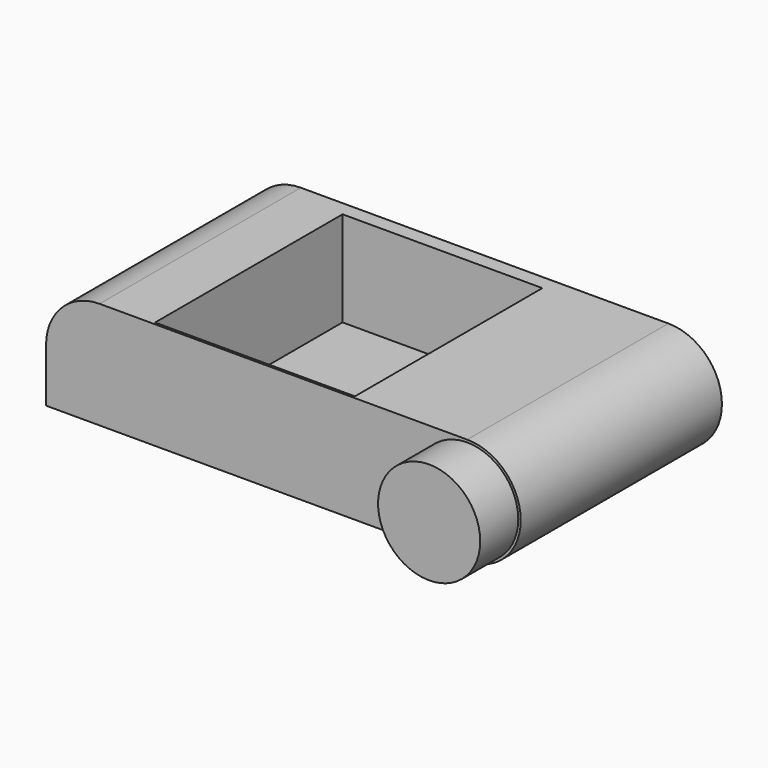
from build123d import *

# Parameters (mm, degrees)
F0_R     = 12
F1_DEPTH = 105.7
F3_DEPTH = 105.7
F4_W     = 84
F4_H     = 98.5
F5_DEPTH = 40
F6_R     = 21.461704
F7_DEPTH = 20


with BuildPart() as f1:
    # F0 (on Front) → F1 (new body)
    with BuildSketch(Plane.XZ):
        with BuildLine():
            Line((90, 22.5), (0, 22.5))
            Line((0, 22.5), (-64.5, 22.5))
            ThreePointArc((-64.5, 22.5), (-87, 0), (-64.5, -22.5))
            Line((-64.5, -22.5), (0, -22.5))
            Line((0, -22.5), (90, -22.5))
            ThreePointArc((90, -22.5), (112.5, 0), (90, 22.5))
        make_face()
        with Locations((90, 0)):
            Circle(F0_R, mode=Mode.SUBTRACT)
    extrude(amount=F1_DEPTH)

    # F2 (on face) → F3 (join)
    with BuildSketch(Plane.XZ.offset(105.7)):
        Polygon((-84.272794, -1.934636), (-87, 0), (-87, -22.5), (-64.5, -22.5), (-70.418127, -18.801184), (-80.156557, -10.970287), align=None)
    extrude(amount=-F3_DEPTH)

    # F4 (on face) → F5 (cut)
    with BuildSketch(Plane.XY.offset(22.5)):
        with Locations((0, -55.45)):
            Rectangle(F4_W, F4_H)
    extrude(amount=-F5_DEPTH, mode=Mode.SUBTRACT)

    # F6 (on face) → F7 (join)
    with BuildSketch(Plane.XZ.offset(105.7)):
        with Locations((90, 0)):
            Circle(F6_R)
    extrude(amount=F7_DEPTH)


solid = f1.part
